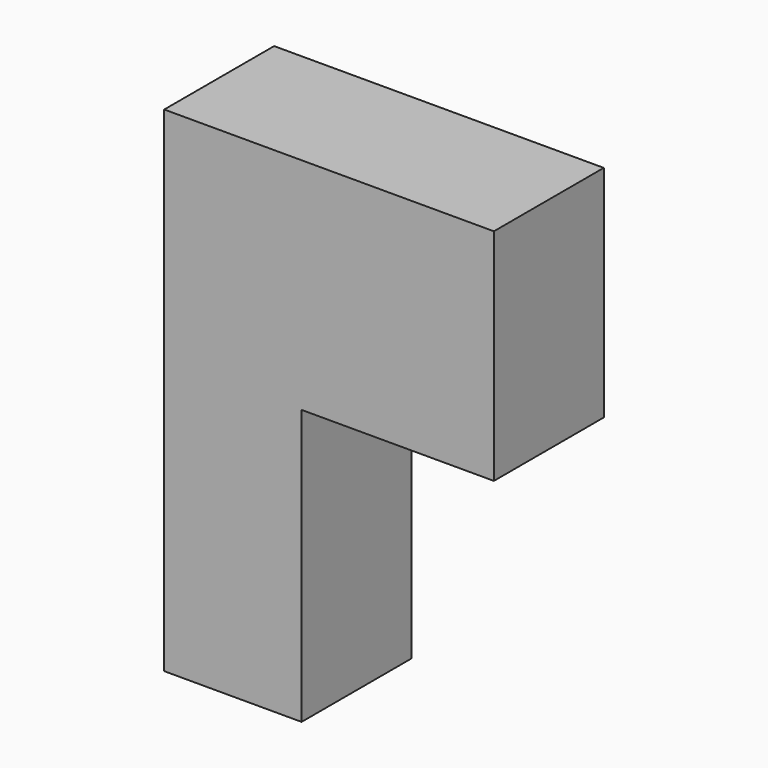
from build123d import *

# Parameters (mm, degrees)
F0_W     = 304.8
F0_H     = 457.2
F1_DEPTH = 127
F2_W     = 177.8
F2_H     = 254
F3_DEPTH = 127
F4_T     = -2.54


with BuildPart() as f1:
    # F0 (on Front) → F1 (new body)
    with BuildSketch(Plane.XZ):
        with Locations((-43.326701003, -0.7706172764)):
            Rectangle(F0_W, F0_H)
    extrude(amount=F1_DEPTH)

    # F2 (on face) → F3 (cut)
    with BuildSketch(Plane.XZ.offset(127)):
        with Locations((20.173298997, -102.3706172764)):
            Rectangle(F2_W, F2_H)
    extrude(amount=-F3_DEPTH, mode=Mode.SUBTRACT)

    # F4
    f4_openings = [f1.faces().sort_by_distance(p)[0] for p in [
        (-195.726701, -63.5, -0.770617),
    ]]
    offset(amount=F4_T, openings=f4_openings, kind=Kind.INTERSECTION)


solid = f1.part
